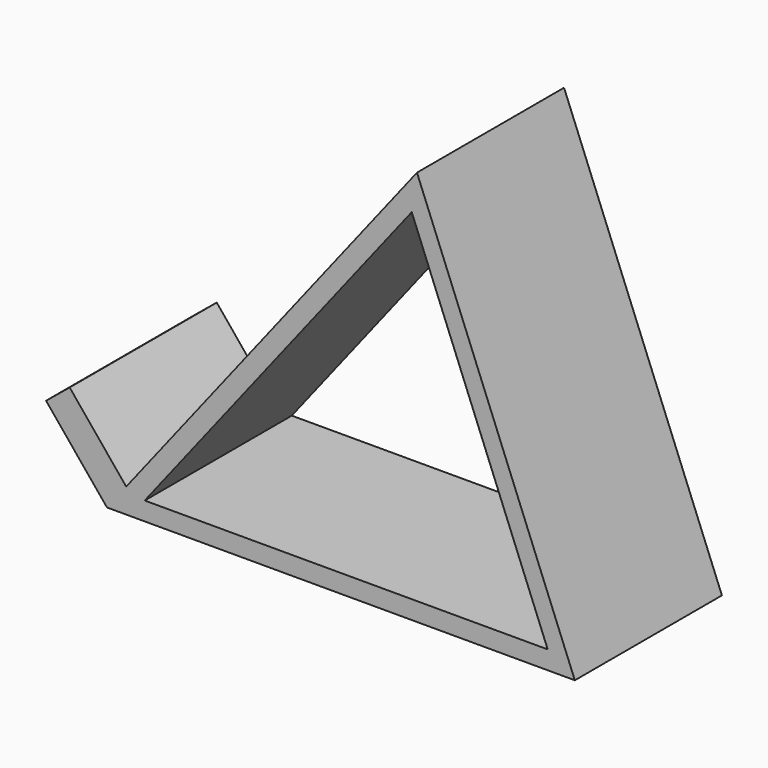
from build123d import *

# Parameters (mm, degrees)
F1_DEPTH = 25.4
F2_T     = -2.54


with BuildPart() as f1:
    # F0 (on Front) → F1 (new body)
    with BuildSketch(Plane.XZ):
        Polygon((21.808967, -17.473448), (0, 37.180346), (-40.166995, -14.075698), (-42.829655, -17.473448), align=None)
        Polygon((-42.829655, -17.473448), (-40.166995, -14.075698), (-47.980445, -4.553055), (-51.23793, -7.225862), align=None)
    extrude(amount=F1_DEPTH)

    # F2
    f2_openings = [f1.faces().sort_by_distance(p)[0] for p in [
        (-8.148417, -25.4, 0.40127),
        (-8.148417, 0, 0.40127),
    ]]
    offset(amount=F2_T, openings=f2_openings)


solid = f1.part
